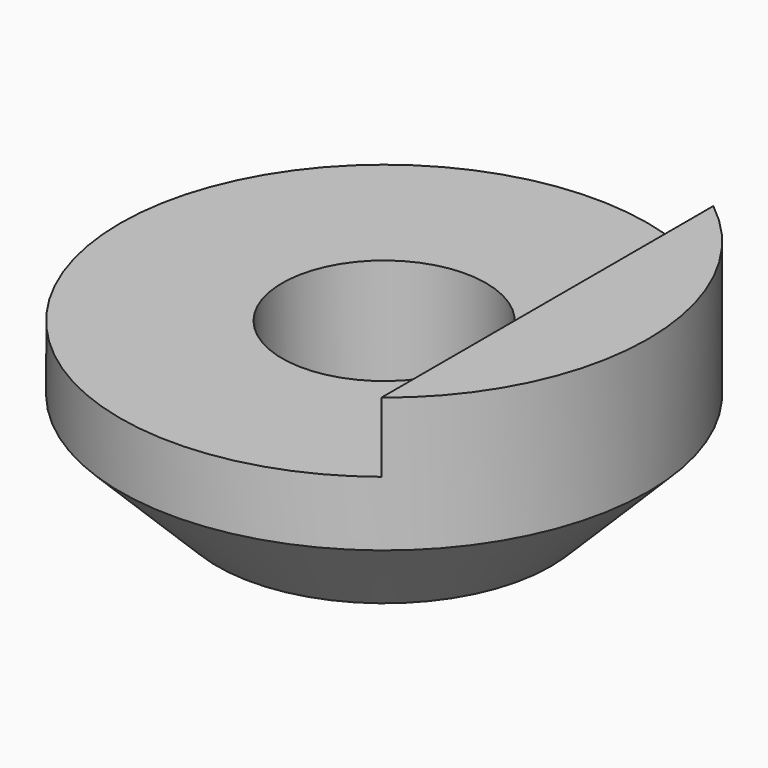
from build123d import *

# Parameters (mm, degrees)
F0_R     = 6.46875
F0_R_2   = 2.5
F1_DEPTH = 5.67817
F2_SIZE  = 2.38125
F3_W     = 10.46875
F3_H     = 12.9375
F4_DEPTH = 1.70942


with BuildPart() as f1:
    # F0 (on Top) → F1 (new body)
    with BuildSketch(Plane.XY):
        Circle(F0_R)
        Circle(F0_R_2, mode=Mode.SUBTRACT)
    extrude(amount=F1_DEPTH)

    # F2
    f2_edges = [f1.edges().sort_by_distance(p)[0] for p in [
        (-6.46875, 0, 0),
    ]]
    chamfer(f2_edges, length=F2_SIZE)

    # F3 (on face) → F4 (cut)
    with BuildSketch(Plane.XY.offset(5.67817)):
        with Locations((-1.234375, 0)):
            Rectangle(F3_W, F3_H)
    extrude(amount=-F4_DEPTH, mode=Mode.SUBTRACT)


solid = f1.part
